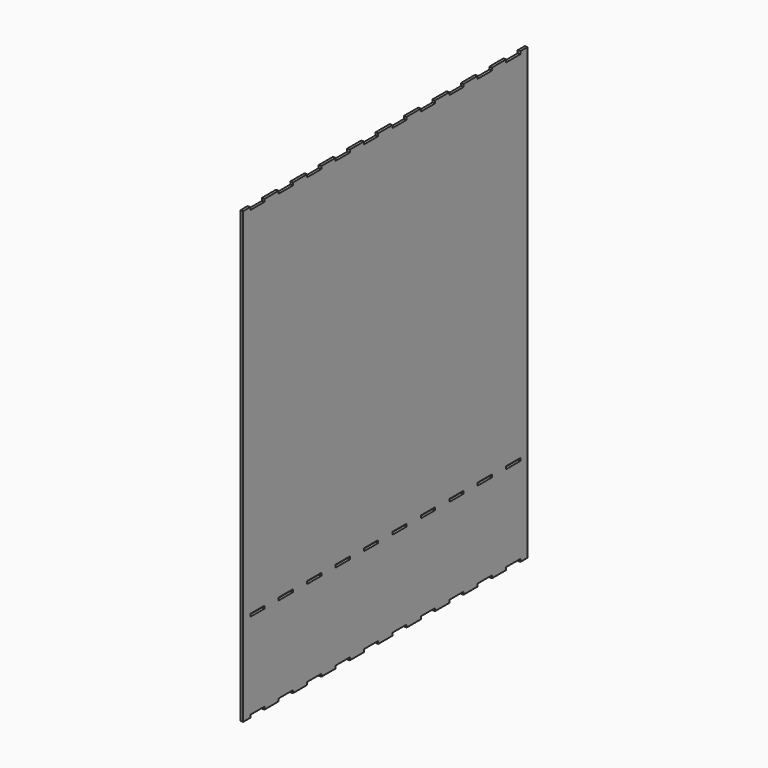
from build123d import *

# Parameters (mm, degrees)
F0_W     = 400
F0_H     = 500
F1_DEPTH = 3
F2_W     = 10
F2_H     = 3
F2_W_2   = 20
F3_DEPTH = 3
F4_W     = 20
F4_H     = 3
F5_DEPTH = 25


with BuildPart() as f1:
    # F0 (on Right) → F1 (new body)
    with BuildSketch(Plane.YZ):
        Rectangle(F0_W, F0_H)
    extrude(amount=F1_DEPTH)

    # F2 (on face) → F3 (join, through all)
    with BuildSketch(Plane.YZ.offset(3)):
        with Locations((-195, 251.5)):
            Rectangle(F2_W, F2_H)
        with Locations((-160, 251.5)):
            Rectangle(F2_W_2, F2_H)
        with Locations((-120, 251.5)):
            Rectangle(F2_W_2, F2_H)
        with Locations((-80, 251.5)):
            Rectangle(F2_W_2, F2_H)
        with Locations((-40, 251.5)):
            Rectangle(F2_W_2, F2_H)
        with Locations((0, 251.5)):
            Rectangle(F2_W_2, F2_H)
        with Locations((40, 251.5)):
            Rectangle(F2_W_2, F2_H)
        with Locations((80, 251.5)):
            Rectangle(F2_W_2, F2_H)
        with Locations((120, 251.5)):
            Rectangle(F2_W_2, F2_H)
        with Locations((160, 251.5)):
            Rectangle(F2_W_2, F2_H)
        with Locations((195, 251.5)):
            Rectangle(F2_W, F2_H)
        with Locations((-120, -251.5)):
            Rectangle(F2_W_2, F2_H)
        with Locations((-160, -251.5)):
            Rectangle(F2_W_2, F2_H)
        with Locations((-80, -251.5)):
            Rectangle(F2_W_2, F2_H)
        with Locations((0, -251.5)):
            Rectangle(F2_W_2, F2_H)
        with Locations((160, -251.5)):
            Rectangle(F2_W_2, F2_H)
        with Locations((80, -251.5)):
            Rectangle(F2_W_2, F2_H)
        with Locations((195, -251.5)):
            Rectangle(F2_W, F2_H)
        with Locations((40, -251.5)):
            Rectangle(F2_W_2, F2_H)
        with Locations((-195, -251.5)):
            Rectangle(F2_W, F2_H)
        with Locations((-40, -251.5)):
            Rectangle(F2_W_2, F2_H)
        with Locations((120, -251.5)):
            Rectangle(F2_W_2, F2_H)
    extrude(amount=-F3_DEPTH)

    # F4 (on face) → F5 (cut)
    with BuildSketch(Plane.YZ.offset(3)):
        with Locations((-180, -151.5)):
            Rectangle(F4_W, F4_H)
        with Locations((-140, -151.5)):
            Rectangle(F4_W, F4_H)
        with Locations((-100, -151.5)):
            Rectangle(F4_W, F4_H)
        with Locations((-60, -151.5)):
            Rectangle(F4_W, F4_H)
        with Locations((-20, -151.5)):
            Rectangle(F4_W, F4_H)
        with Locations((20, -151.5)):
            Rectangle(F4_W, F4_H)
        with Locations((60, -151.5)):
            Rectangle(F4_W, F4_H)
        with Locations((100, -151.5)):
            Rectangle(F4_W, F4_H)
        with Locations((140, -151.5)):
            Rectangle(F4_W, F4_H)
        with Locations((180, -151.5)):
            Rectangle(F4_W, F4_H)
    extrude(amount=-F5_DEPTH, mode=Mode.SUBTRACT)


solid = f1.part
